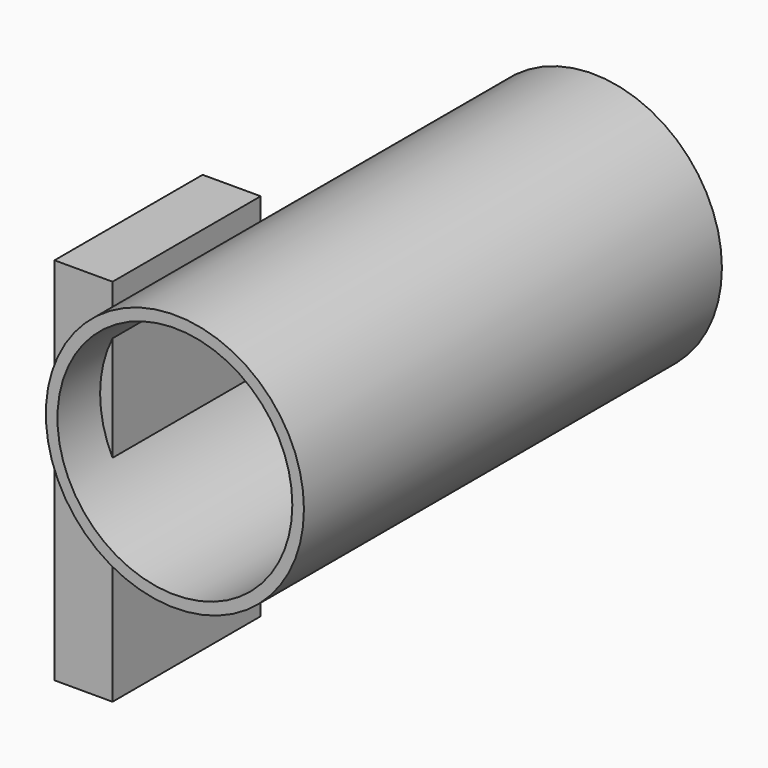
from build123d import *

# Parameters (mm, degrees)
F0_R     = 28.232887
F1_DEPTH = 114.3
F2_T     = -2.54
F3_W     = 40.50754
F3_H     = 80.898837
F4_DEPTH = 12.7


with BuildPart() as f1:
    # F0 (on Front) → F1 (new body)
    with BuildSketch(Plane.XZ):
        with Locations((35.670944, 42.30497)):
            Circle(F0_R)
    extrude(amount=F1_DEPTH)

    # F2
    f2_openings = [f1.faces().sort_by_distance(p)[0] for p in [
        (35.670944, -114.3, 42.30497),
    ]]
    offset(amount=F2_T, openings=f2_openings)

    # F3 (on Right) → F4 (join)
    with BuildSketch(Plane.YZ):
        with Locations((-82.380377, 24.268664)):
            Rectangle(F3_W, F3_H)
    extrude(amount=F4_DEPTH)


solid = f1.part
